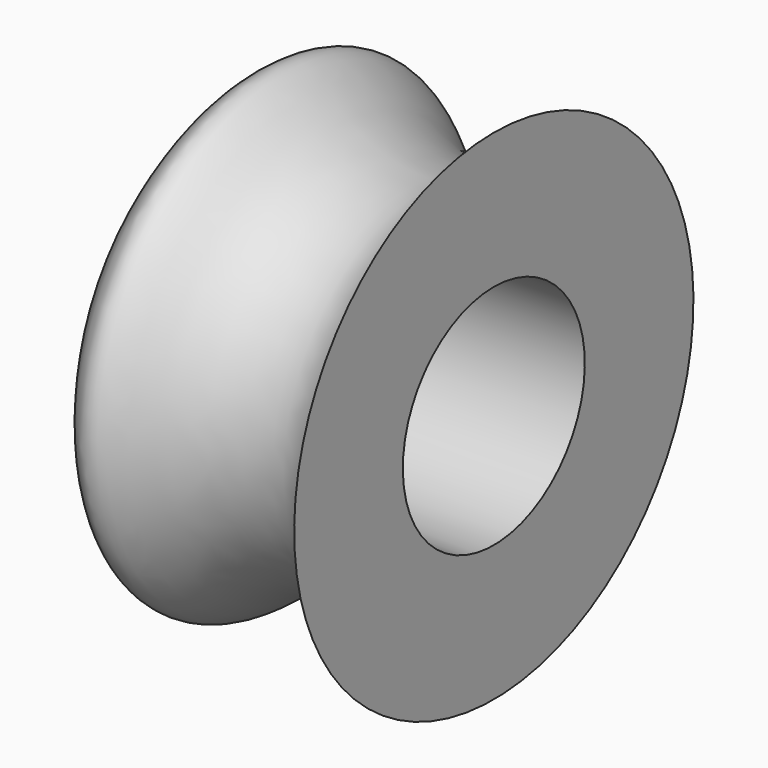
from build123d import *


with BuildPart() as f1:
    # F0 (on Front) → F1 (revolve)
    with BuildSketch(Plane.XZ):
        with BuildLine():
            add(Edge.make_bspline(
                [(-37.7896726131, 59.628047049), (-35.058327599, 63.4968987285), (-29.2293753661, 71.7533992871), (-17.7447932309, 56.9499707172), (6.474072179, 53.7411779391), (11.3411230055, 65.0204356984), (13.5988630354, 70.252686739)],
                knots=[0, 0, 0, 0, 0.2144824063, 0.4577260268, 0.7484485574, 1, 1, 1, 1], degree=3))
            Line((-37.7896726131, 59.628047049), (-37.7896726131, 43.5826852918))
            Line((-37.7896726131, 43.5826852918), (13.5988630354, 43.5826852918))
            Line((13.5988630354, 43.5826852918), (13.5988630354, 70.252686739))
        make_face()
    revolve(axis=Axis((-6.828982383, 0, 21.2492700666), (1, 0, 0)))


solid = f1.part
